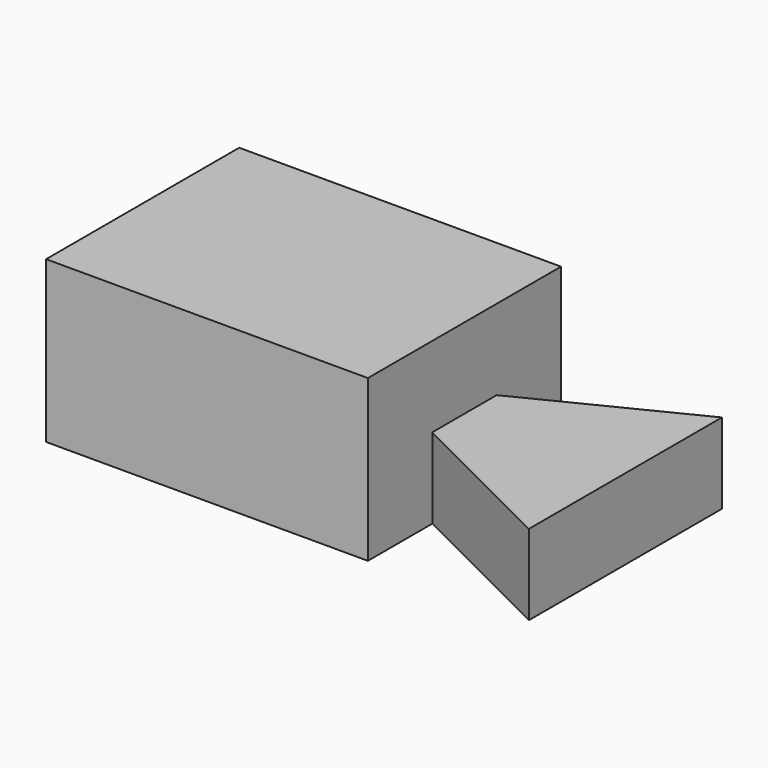
from build123d import *

# Parameters (mm, degrees)
F0_W     = 101.6
F0_H     = 50.8
F1_DEPTH = 76.2
F2_W     = 50.8
F2_H     = 76.2
F3_DEPTH = 25.4
F5_DEPTH = 25.4


with BuildPart() as f1:
    # F0 (on Front) → F1 (new body)
    with BuildSketch(Plane.XZ):
        with Locations((-50.8, 25.4)):
            Rectangle(F0_W, F0_H)
    extrude(amount=-F1_DEPTH)

    # F2 (on Top) → F3 (join)
    with BuildSketch(Plane.XY):
        with Locations((25.4, 38.1)):
            Rectangle(F2_W, F2_H)
    extrude(amount=F3_DEPTH)

    # F4 (on face) → F5 (cut, through all)
    with BuildSketch(Plane.XY.offset(25.4)):
        Polygon((0, 25.4), (0, 0), (50.8, 0), align=None)
        Polygon((0, 50.8), (50.8, 76.2), (0, 76.2), align=None)
    extrude(amount=-F5_DEPTH, mode=Mode.SUBTRACT)


solid = f1.part
